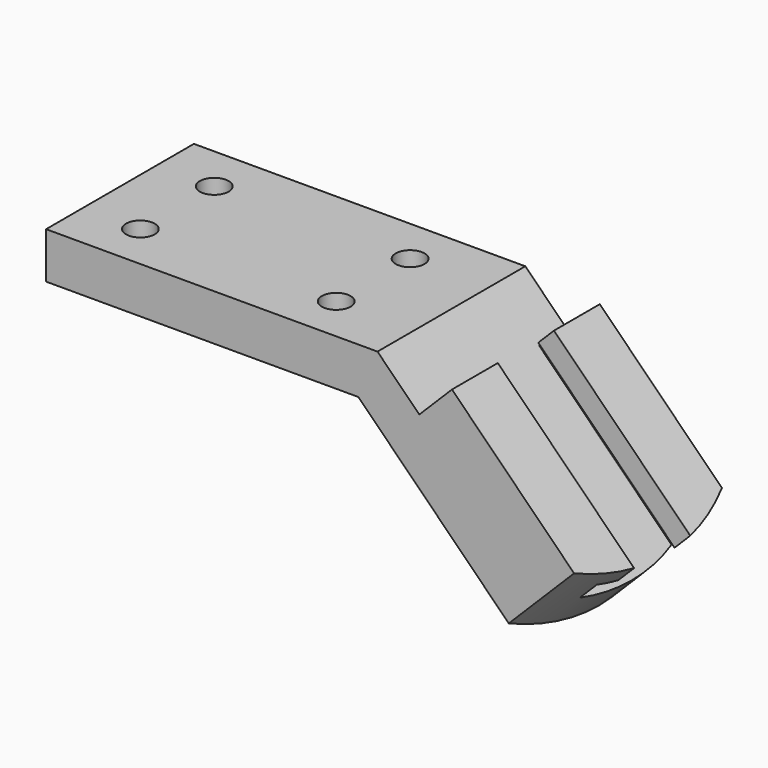
from build123d import *

# Parameters (mm, degrees)
F1_DEPTH       = 25.4
F3_DEPTH       = 118.5292752574
F5_DEPTH       = 66.549
F8_D           = 7.9248
F8_CBORE_D     = 12.7
F8_CBORE_DEPTH = 6.096


with BuildPart() as f1:
    # F0 (on Front) → F1 (new body, symmetric)
    with BuildSketch(Plane.XZ):
        Polygon((-91.1125122421, 0), (-91.1125122421, -12.7), (-5.2605122421, -12.7), (40.5907576672, -58.5512699094), (49.5710137883, -49.5710137883), (11.494727835, -11.494727835), (0, 0), align=None)
        Polygon((11.494727835, -11.494727835), (49.5710137883, -49.5710137883), (58.5512699094, -40.5907576672), (20.474983956, -2.5144717139), align=None)
    extrude(amount=F1_DEPTH, both=True)

    # F2 (on face) → F3 (cut, through all)
    with BuildSketch(Plane(origin=(8.9802561211, 0, 8.9802561211), x_dir=(0, 1, 0), z_dir=(0.7071067812, 0, 0.7071067812))):
        with BuildLine():
            Line((-1.329e-07, -70.104), (25.4, -70.104))
            Line((25.4, -70.104), (25.4, -63.7370183547))
            ThreePointArc((25.4, -63.7370183547), (13.0929222151, -68.4880063933), (-1.329e-07, -70.104))
        make_face()
        with BuildLine():
            Line((-25.4, -70.104), (-1.329e-07, -70.104))
            ThreePointArc((-1.329e-07, -70.104), (-13.092922344, -68.488006361), (-25.4, -63.7370183547))
            Line((-25.4, -63.7370183547), (-25.4, -70.104))
        make_face()
    extrude(amount=-F3_DEPTH, mode=Mode.SUBTRACT)

    # F4 (on face) → F5 (cut, through all)
    with BuildSketch(Plane(origin=(11.494727835, 0, -11.494727835), x_dir=(0, -1, 0), z_dir=(-0.7071067812, 0, 0.7071067812))):
        Polygon((9.652, 12.7), (-9.652, 12.7), (-9.652, 6.604), (-15.748, 6.604), (-15.748, 0), (15.748, 0), (15.748, 6.604), (9.652, 6.604), align=None)
    extrude(amount=-F5_DEPTH, mode=Mode.SUBTRACT)

    # F8 (through all)
    with Locations(Plane(origin=(0, 0, -12.7), x_dir=(1, 0, 0), z_dir=(0, 0, -1))):
        with Locations((-75.3645122421, 12.7), (-21.5165122421, 12.7), (-21.5165122421, -12.7), (-75.3645122421, -12.7)):
            CounterBoreHole(F8_D / 2, F8_CBORE_D / 2, F8_CBORE_DEPTH)


solid = f1.part
